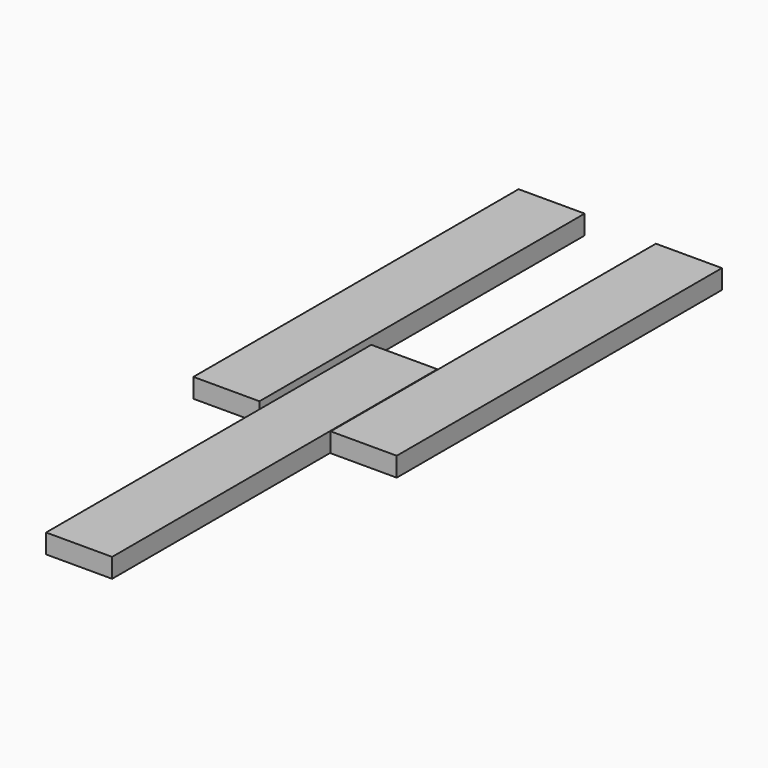
from build123d import *

# Parameters (mm, degrees)
F1_W     = 65
F1_H     = 400
F2_DEPTH = 19
F3_W     = 65
F3_H     = 400
F4_DEPTH = 19
F5_W     = 65
F5_H     = 400
F6_DEPTH = 19


with BuildPart() as f2:
    # F1 (on face) → F2 (new body)
    with BuildSketch(Plane.XY):
        with Locations((-23.103887, -37.970969)):
            Rectangle(F1_W, F1_H)
    extrude(amount=F2_DEPTH)


with BuildPart() as f4:
    # F3 (on Top) → F4 (new body)
    with BuildSketch(Plane.XY):
        with Locations((-88.741675, -306.026504)):
            Rectangle(F3_W, F3_H)
    extrude(amount=F4_DEPTH)


with BuildPart() as f6:
    # F5 (on Top) → F6 (new body)
    with BuildSketch(Plane.XY):
        with Locations((-162.118547, -33.061335)):
            Rectangle(F5_W, F5_H)
    extrude(amount=F6_DEPTH)


solid = Compound([f2.part, f4.part, f6.part])
